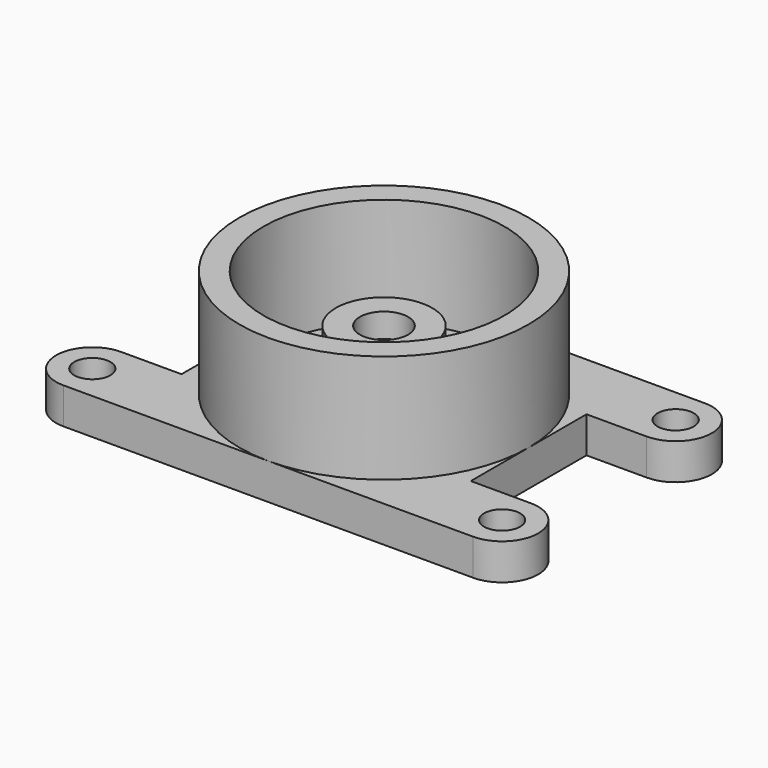
from build123d import *

# Parameters (mm, degrees)
F2_R     = 9.525
F3_DEPTH = 19.05


with BuildPart() as f1:
    # F0 (on Front) → F1 (revolve)
    with BuildSketch(Plane.XZ):
        Polygon((-76.2, 0), (-6.35, 0), (-6.35, 38.1), (-12.7, 38.1), (-12.7, 50.8), (-25.4, 50.8), (-25.4, 19.05), (-63.5, 19.05), (-63.5, 76.2), (-76.2, 76.2), align=None)
    revolve(axis=Axis((0, 0, 38.1), (0, 0, 1)))

    # F2 (on Top) → F3 (join)
    with BuildSketch(Plane.XY):
        with BuildLine():
            Line((-107.95, -76.2), (0, -76.2))
            ThreePointArc((0, -76.2), (-53.8815367264, -53.8815367264), (-76.2, 0))
            Line((-76.2, 0), (-76.2, -38.1))
            Line((-76.2, -38.1), (-107.95, -38.1))
            Line((-107.95, -38.1), (-107.95, -47.625))
            ThreePointArc((-107.95, -47.625), (-101.2148079092, -50.4148079092), (-98.425, -57.15))
            ThreePointArc((-98.425, -57.15), (-101.2148079092, -63.8851920908), (-107.95, -66.675))
            Line((-107.95, -66.675), (-107.95, -76.2))
        make_face()
        with BuildLine():
            ThreePointArc((-107.95, -38.1), (-127, -57.15), (-107.95, -76.2))
            Line((-107.95, -76.2), (-107.95, -66.675))
            ThreePointArc((-107.95, -66.675), (-117.475, -57.15), (-107.95, -47.625))
            Line((-107.95, -47.625), (-107.95, -38.1))
        make_face()
        with BuildLine():
            Line((-76.2, 38.1), (-76.2, 0))
            ThreePointArc((-76.2, 0), (-53.8815367264, 53.8815367264), (0, 76.2))
            Line((0, 76.2), (-107.95, 76.2))
            ThreePointArc((-107.95, 76.2), (-127, 57.15), (-107.95, 38.1))
            Line((-107.95, 38.1), (-76.2, 38.1))
        make_face()
        with Locations((-107.95, 57.15)):
            Circle(F2_R, mode=Mode.SUBTRACT)
        with BuildLine():
            ThreePointArc((0, 76.2), (53.8815367264, 53.8815367264), (76.2, 0))
            Line((76.2, 0), (76.2, 38.1))
            Line((76.2, 38.1), (107.95, 38.1))
            ThreePointArc((107.95, 38.1), (127, 57.15), (107.95, 76.2))
            Line((107.95, 76.2), (0, 76.2))
        make_face()
        with Locations((107.95, 57.15)):
            Circle(F2_R, mode=Mode.SUBTRACT)
        with BuildLine():
            ThreePointArc((76.2, 0), (53.8815367264, -53.8815367264), (0, -76.2))
            Line((0, -76.2), (107.95, -76.2))
            ThreePointArc((107.95, -76.2), (127, -57.15), (107.95, -38.1))
            Line((107.95, -38.1), (76.2, -38.1))
            Line((76.2, -38.1), (76.2, 0))
        make_face()
        with Locations((107.95, -57.15)):
            Circle(F2_R, mode=Mode.SUBTRACT)
    extrude(amount=F3_DEPTH)


solid = f1.part
